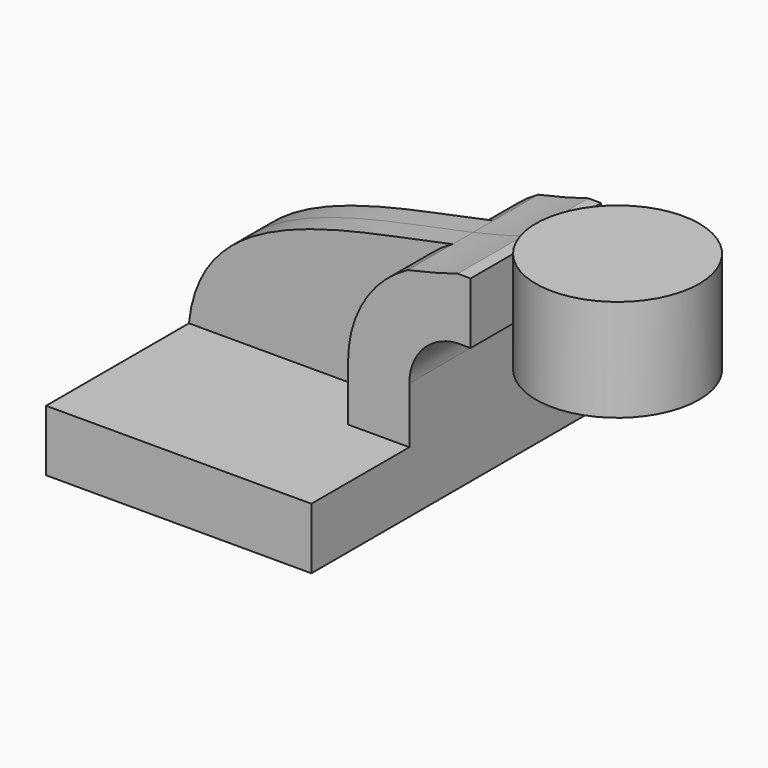
from build123d import *

# Parameters (mm, degrees)
F1_DEPTH = 63.5
F2_DEPTH = 25.4
F3_DEPTH = 7.9375


with BuildPart() as f1:
    # F0 (on Front) → F1 (new body, symmetric)
    with BuildSketch(Plane.XZ):
        Polygon((22.225, 9.525), (-41.275, 9.525), (-41.275, -9.525), (41.275, -9.525), (41.275, 9.525), align=None)
    extrude(amount=F1_DEPTH, both=True)

    # F0 (on Front) → F2 (join, symmetric)
    with BuildSketch(Plane.XZ):
        with BuildLine():
            Line((22.225, 27.033037), (22.225, 9.525))
            Line((22.225, 9.525), (41.275, 9.525))
            Line((41.275, 9.525), (41.275, 27.033037))
            ThreePointArc((41.275, 27.033037), (46.291489, 38.613554), (58.170542, 42.8752))
            Line((58.170542, 42.8752), (60.325, 42.8752))
            Line((60.325, 42.8752), (60.325, 61.948398))
            Line((60.325, 61.948398), (56.329497, 61.948398))
            add(Edge.make_bspline(
                [(40.759663, 57.873149), (46.239542, 59.091759), (51.49404, 60.402469), (56.329497, 61.948398)],
                knots=[95.674373, 95.674373, 95.674373, 95.674373, 110.791924, 110.791924, 110.791924, 110.791924], degree=3))
            ThreePointArc((40.759663, 57.873149), (27.21517, 45.023633), (22.225, 27.033037))
        make_face()
    extrude(amount=F2_DEPTH, both=True)

    # F0 (on Front) → F3 (join, symmetric)
    with BuildSketch(Plane.XZ):
        with BuildLine():
            add(Edge.make_bspline(
                [(-41.275, 9.525), (-37.628421, 46.137521), (6.079175, 50.160935), (40.759663, 57.873149)],
                knots=[0, 0, 0, 0, 95.674373, 95.674373, 95.674373, 95.674373], degree=3))
            Line((-41.275, 9.525), (22.225, 9.525))
            Line((22.225, 9.525), (22.225, 27.033037))
            ThreePointArc((22.225, 27.033037), (27.21517, 45.023633), (40.759663, 57.873149))
        make_face()
    extrude(amount=F3_DEPTH, both=True)

    # F0 (on Front) → F4 (revolve)
    with BuildSketch(Plane.XZ):
        Polygon((85.725, 66.675), (85.725, 61.948398), (85.725, 42.8752), (85.725, 34.925), (111.125, 34.925), (111.125, 66.675), align=None)
    revolve(axis=Axis((85.725, 0, 50.8), (0, 0, 1)))


solid = f1.part
